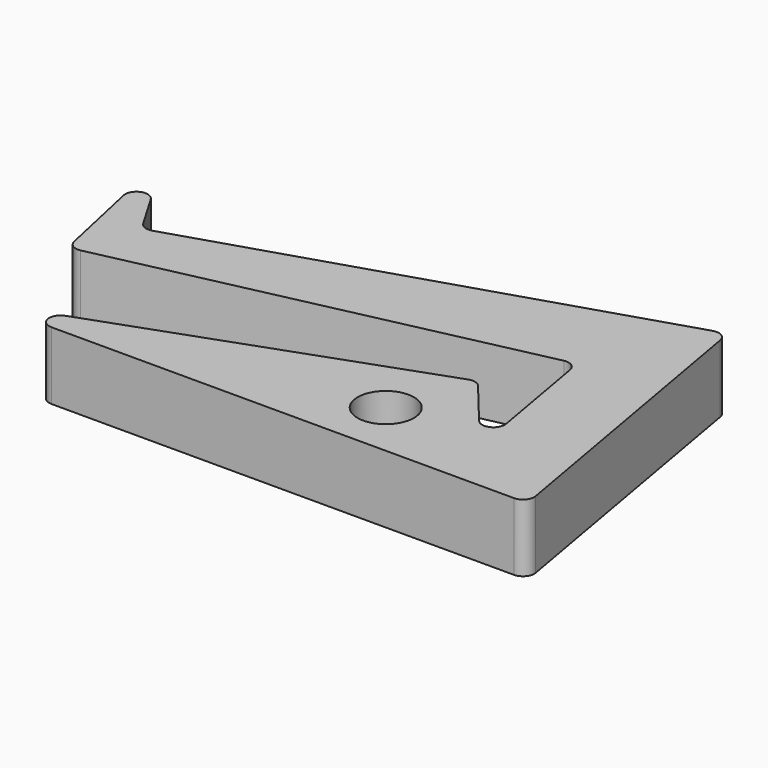
from build123d import *

# Parameters (mm, degrees)
F0_R     = 12.5
F1_DEPTH = 30
F2_R     = 5


with BuildPart() as f1:
    # F0 (on Top) → F1 (new body)
    with BuildSketch(Plane.XY):
        Polygon((102.857415, -70.30526), (77.678429, 72.491864), (-130.231866, 6.937999), (-157.469519, 53.252321), (-141.420811, -20.010486), (51.016164, 22.144119), (63.246589, -47.218068), (32.226125, -9.502765), (-137.142585, -70.30526), align=None)
        with Locations((19.731589, -45.006815)):
            Circle(F0_R, mode=Mode.SUBTRACT)
    extrude(amount=F1_DEPTH)

    # F2
    f2_edges = [f1.edges().sort_by_distance(p)[0] for p in [
        (-130.231866, 6.937999, 15),
        (-157.469519, 53.252321, 15),
        (-141.420811, -20.010486, 15),
        (32.226125, -9.502765, 15),
        (63.246589, -47.218068, 15),
        (51.016164, 22.144119, 15),
        (-137.142585, -70.30526, 15),
        (77.678429, 72.491864, 15),
        (102.857415, -70.30526, 15),
    ]]
    fillet(f2_edges, radius=F2_R)


solid = f1.part
